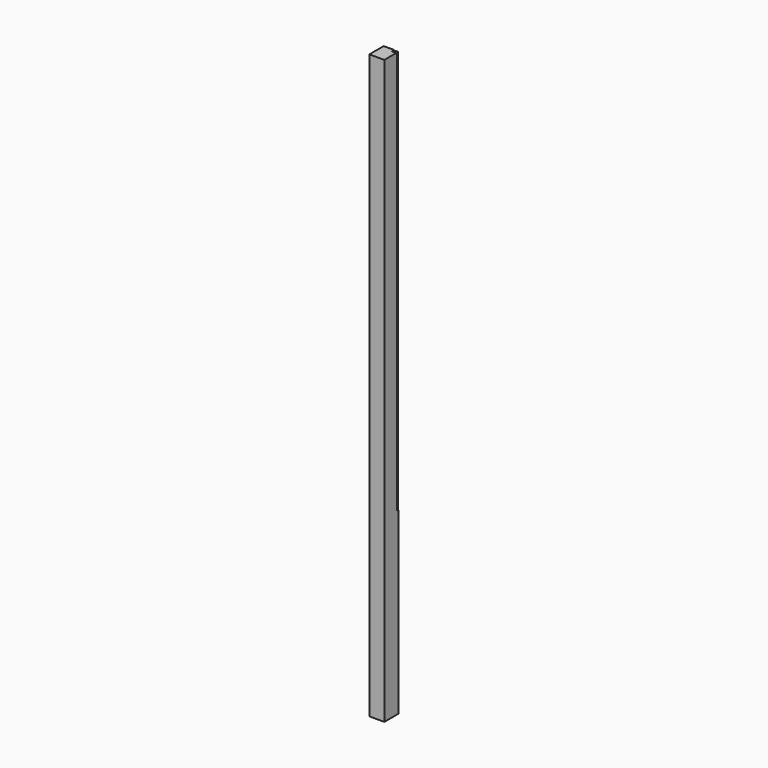
from build123d import *

# Parameters (mm, degrees)
F0_W     = 50
F0_H     = 60
F1_DEPTH = 1950
F2_W     = 15
F2_H     = 2
F3_DEPTH = 1350


with BuildPart() as f1:
    # F0 (on Top) → F1 (new body)
    with BuildSketch(Plane.XY):
        Rectangle(F0_W, F0_H)
    extrude(amount=F1_DEPTH)

    # F2 (on face) → F3 (cut)
    with BuildSketch(Plane.XY.offset(1950)):
        with Locations((17.5, 29)):
            Rectangle(F2_W, F2_H)
        with Locations((17.5, 25)):
            Rectangle(F2_W, F2_H)
        with Locations((17.5, 21)):
            Rectangle(F2_W, F2_H)
    extrude(amount=-F3_DEPTH, mode=Mode.SUBTRACT)


solid = f1.part
